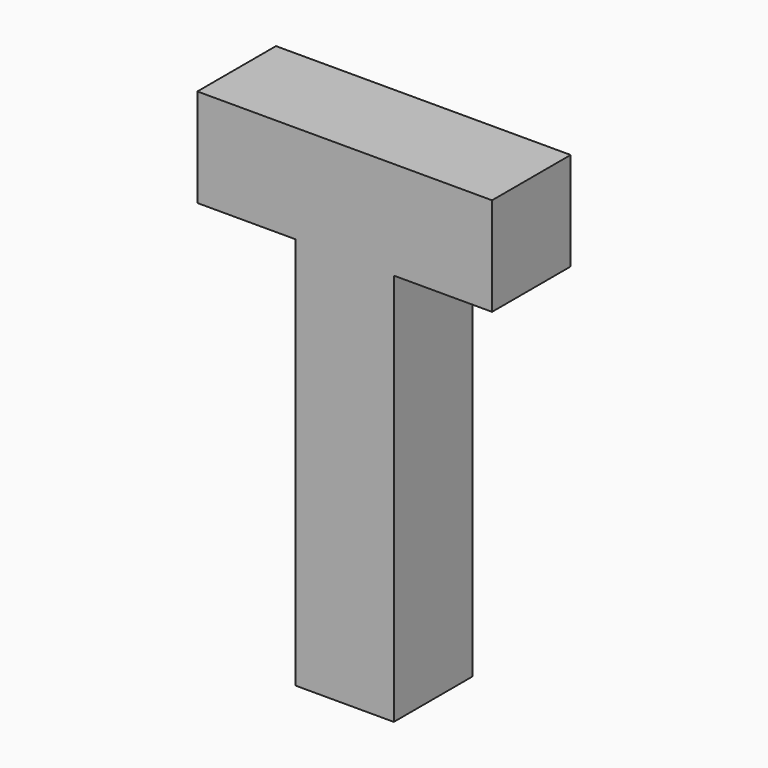
from build123d import *

# Parameters (mm, degrees)
F0_W     = 40
F0_H     = 40
F1_DEPTH = 40


with BuildPart() as f1:
    # F0 (on Front) → F1 (new body)
    with BuildSketch(Plane.XZ):
        with Locations((-40, 80)):
            Rectangle(F0_W, F0_H)
        with Locations((0, 80)):
            Rectangle(F0_W, F0_H)
        with Locations((40, 80)):
            Rectangle(F0_W, F0_H)
        with Locations((0, 40)):
            Rectangle(F0_W, F0_H)
        Rectangle(F0_W, F0_H)
        with Locations((0, -40)):
            Rectangle(F0_W, F0_H)
        with Locations((0, -80)):
            Rectangle(F0_W, F0_H)
    extrude(amount=F1_DEPTH)


solid = f1.part
